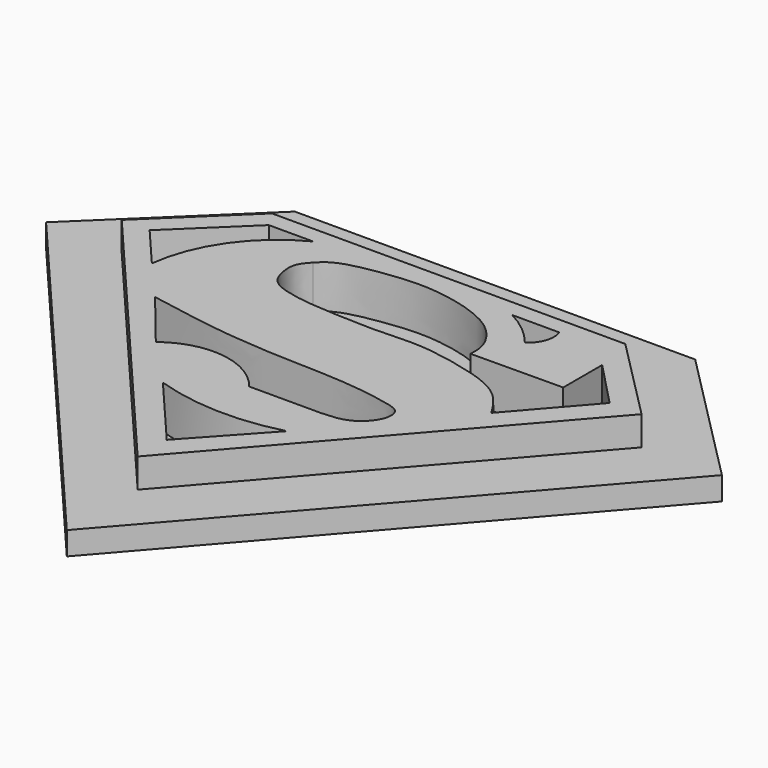
from build123d import *

# Parameters (mm, degrees)
F1_DEPTH = 13.208
F3_DEPTH = 5.842
F4_DEPTH = 2.286


with BuildPart() as f1:
    # F0 (on Top) → F1 (new body)
    with BuildSketch(Plane.XY):
        Polygon((-32.3560461402, 52.3441955447), (-53.7407882512, 31.7032672465), (11.7151224986, -45.0958572328), (77.9148489237, 30.9594497085), (56.7160658538, 52.3441955447), align=None)
        with BuildLine():
            Line((11.7534588652, -35.9788919642), (-4.0909931995, -17.3886679113))
            ThreePointArc((-4.0909931995, -17.3886679113), (11.8338253195, -20.1670289266), (27.8931483626, -18.3184407651))
            Line((27.8931483626, -18.3184407651), (11.7534588652, -35.9788919642))
        make_face(mode=Mode.SUBTRACT)
        with BuildLine():
            Line((-15.9920677543, -4.7437758185), (-28.0790962279, 10.132567957))
            add(Edge.make_bspline(
                [(10.2274892852, -8.0909533426), (12.1311980321, -8.0811949568), (16.6056392449, -8.0582590306), (28.0675694172, -8.260866764), (35.4281055247, -7.6163836537), (40.0045754864, -2.566455147), (39.8246795693, 2.1720673748), (35.0407493301, 3.4771529183), (23.8681432212, 5.3426673719), (7.5880009118, 5.5207412488), (-9.0300836632, 6.6406913012), (-21.5775197413, 8.9407632332), (-28.0790962279, 10.132567957)],
                knots=[0, 0, 0, 0, 0.0811549252, 0.1907450089, 0.2784552829, 0.3583205454, 0.4206023983, 0.4857819839, 0.5941913826, 0.7255593555, 0.8577959011, 1, 1, 1, 1], degree=3))
            ThreePointArc((10.2274892852, -8.0909533426), (-2.1833926559, -0.9426747631), (-15.9920677543, -4.7437758185))
        make_face(mode=Mode.SUBTRACT)
        with BuildLine():
            Line((-29.7526847571, 48.0672456324), (-18.5954272747, 48.0672456324))
            ThreePointArc((-18.5954272747, 48.0672456324), (-31.4465122391, 36.8656402663), (-37.5345167614, 20.9419928048))
            Line((-37.5345167614, 20.9419928048), (-46.7063533439, 31.7032672465))
            Line((-46.7063533439, 31.7032672465), (-29.7526847571, 48.0672456324))
        make_face(mode=Mode.SUBTRACT)
        with BuildLine():
            add(Edge.make_bspline(
                [(-13.0167985335, 41.0009808838), (-13.8484287107, 40.082814319), (-15.565289774, 38.1873029874), (-15.2606426357, 33.832747479), (-13.5885583121, 29.386468667), (-7.2525242916, 27.6423436933), (-2.5756386001, 26.9695936321), (5.9646033503, 26.4396631967), (15.9087676241, 26.1157582849), (25.1839117973, 26.9753343414), (37.7399966402, 24.7556338977), (49.363974562, 21.0330861798), (52.8536560426, 15.5053545774), (54.4846132398, 12.9218827933)],
                knots=[0, 0, 0, 0, 0.0636774795, 0.1314591366, 0.201820557, 0.2839645461, 0.3580831489, 0.4551315435, 0.5613340532, 0.6635288988, 0.7834677165, 0.8988002521, 1, 1, 1, 1], degree=3))
            add(Edge.make_bspline(
                [(-13.0167985335, 41.0009808838), (-12.0481296696, 41.9921143662), (-9.5113733669, 44.5877011576), (2.9405575009, 46.6337667098), (11.5743267132, 47.1006613705), (21.4859282328, 45.4716097171), (31.0408798749, 41.5633506366), (35.6975262534, 34.5926167833), (35.5712002648, 31.3947542592), (35.5172753334, 30.0296787173)],
                knots=[0, 0, 0, 0, 0.1085428993, 0.2842528487, 0.4362761442, 0.593978359, 0.7556477926, 0.8956930701, 1, 1, 1, 1], degree=3))
            Line((35.5172753334, 30.0296787173), (58.7615631521, 30.2156321704))
            Line((58.7615631521, 30.2156321704), (58.7615631521, 42.4886159599))
            Line((58.7615631521, 42.4886159599), (70.0138553039, 30.763063347))
            Line((70.0138553039, 30.763063347), (54.4846132398, 12.9218827933))
        make_face(mode=Mode.SUBTRACT)
        with BuildLine():
            ThreePointArc((40.9099496901, 40.4431186616), (36.6630872067, 44.7454214943), (31.6122323275, 48.0672456324))
            Line((31.6122323275, 48.0672456324), (43.5133092105, 48.0672456324))
            ThreePointArc((43.5133092105, 48.0672456324), (43.519577812, 43.8085657891), (40.9099496901, 40.4431186616))
        make_face(mode=Mode.SUBTRACT)
    extrude(amount=F1_DEPTH)

    # F2 (on Top) → F3 (join)
    with BuildSketch(Plane.XY):
        Polygon((-73.5871798547, 32.6692324465), (11.5997663014, -67.2802267683), (97.6663614689, 31.5996578829), (62.750120097, 66.8221961218), (-38.2034844139, 66.8221961218), align=None)
        Polygon((11.7151224986, -45.0958572328), (-53.7407882512, 31.7032672465), (-32.3560461402, 52.3441955447), (56.7160658538, 52.3441955447), (77.9148489237, 30.9594497085), align=None, mode=Mode.SUBTRACT)
    extrude(amount=F3_DEPTH)

    # F0 (on Top) → F4 (join)
    with BuildSketch(Plane.XY):
        with BuildLine():
            add(Edge.make_bspline(
                [(-13.0167985335, 41.0009808838), (-12.0481296696, 41.9921143662), (-9.5113733669, 44.5877011576), (2.9405575009, 46.6337667098), (11.5743267132, 47.1006613705), (21.4859282328, 45.4716097171), (31.0408798749, 41.5633506366), (35.6975262534, 34.5926167833), (35.5712002648, 31.3947542592), (35.5172753334, 30.0296787173)],
                knots=[0, 0, 0, 0, 0.1085428993, 0.2842528487, 0.4362761442, 0.593978359, 0.7556477926, 0.8956930701, 1, 1, 1, 1], degree=3))
            add(Edge.make_bspline(
                [(-13.0167985335, 41.0009808838), (-13.8484287107, 40.082814319), (-15.565289774, 38.1873029874), (-15.2606426357, 33.832747479), (-13.5885583121, 29.386468667), (-7.2525242916, 27.6423436933), (-2.5756386001, 26.9695936321), (5.9646033503, 26.4396631967), (15.9087676241, 26.1157582849), (25.1839117973, 26.9753343414), (37.7399966402, 24.7556338977), (49.363974562, 21.0330861798), (52.8536560426, 15.5053545774), (54.4846132398, 12.9218827933)],
                knots=[0, 0, 0, 0, 0.0636774795, 0.1314591366, 0.201820557, 0.2839645461, 0.3580831489, 0.4551315435, 0.5613340532, 0.6635288988, 0.7834677165, 0.8988002521, 1, 1, 1, 1], degree=3))
            Line((54.4846132398, 12.9218827933), (70.0138553039, 30.763063347))
            Line((70.0138553039, 30.763063347), (58.7615631521, 42.4886159599))
            Line((58.7615631521, 42.4886159599), (58.7615631521, 30.2156321704))
            Line((58.7615631521, 30.2156321704), (35.5172753334, 30.0296787173))
        make_face()
        with BuildLine():
            ThreePointArc((-37.5345167614, 20.9419928048), (-31.4465122391, 36.8656402663), (-18.5954272747, 48.0672456324))
            Line((-18.5954272747, 48.0672456324), (-29.7526847571, 48.0672456324))
            Line((-29.7526847571, 48.0672456324), (-46.7063533439, 31.7032672465))
            Line((-46.7063533439, 31.7032672465), (-37.5345167614, 20.9419928048))
        make_face()
        with BuildLine():
            Line((43.5133092105, 48.0672456324), (31.6122323275, 48.0672456324))
            ThreePointArc((31.6122323275, 48.0672456324), (36.6630872067, 44.7454214943), (40.9099496901, 40.4431186616))
            ThreePointArc((40.9099496901, 40.4431186616), (43.519577812, 43.8085657891), (43.5133092105, 48.0672456324))
        make_face()
        with BuildLine():
            add(Edge.make_bspline(
                [(10.2274892852, -8.0909533426), (12.1311980321, -8.0811949568), (16.6056392449, -8.0582590306), (28.0675694172, -8.260866764), (35.4281055247, -7.6163836537), (40.0045754864, -2.566455147), (39.8246795693, 2.1720673748), (35.0407493301, 3.4771529183), (23.8681432212, 5.3426673719), (7.5880009118, 5.5207412488), (-9.0300836632, 6.6406913012), (-21.5775197413, 8.9407632332), (-28.0790962279, 10.132567957)],
                knots=[0, 0, 0, 0, 0.0811549252, 0.1907450089, 0.2784552829, 0.3583205454, 0.4206023983, 0.4857819839, 0.5941913826, 0.7255593555, 0.8577959011, 1, 1, 1, 1], degree=3))
            Line((-28.0790962279, 10.132567957), (-15.9920677543, -4.7437758185))
            ThreePointArc((-15.9920677543, -4.7437758185), (-2.1833926559, -0.9426747631), (10.2274892852, -8.0909533426))
        make_face()
        with BuildLine():
            ThreePointArc((27.8931483626, -18.3184407651), (11.8338253195, -20.1670289266), (-4.0909931995, -17.3886679113))
            Line((-4.0909931995, -17.3886679113), (11.7534588652, -35.9788919642))
            Line((11.7534588652, -35.9788919642), (27.8931483626, -18.3184407651))
        make_face()
    extrude(amount=F4_DEPTH)


solid = f1.part
